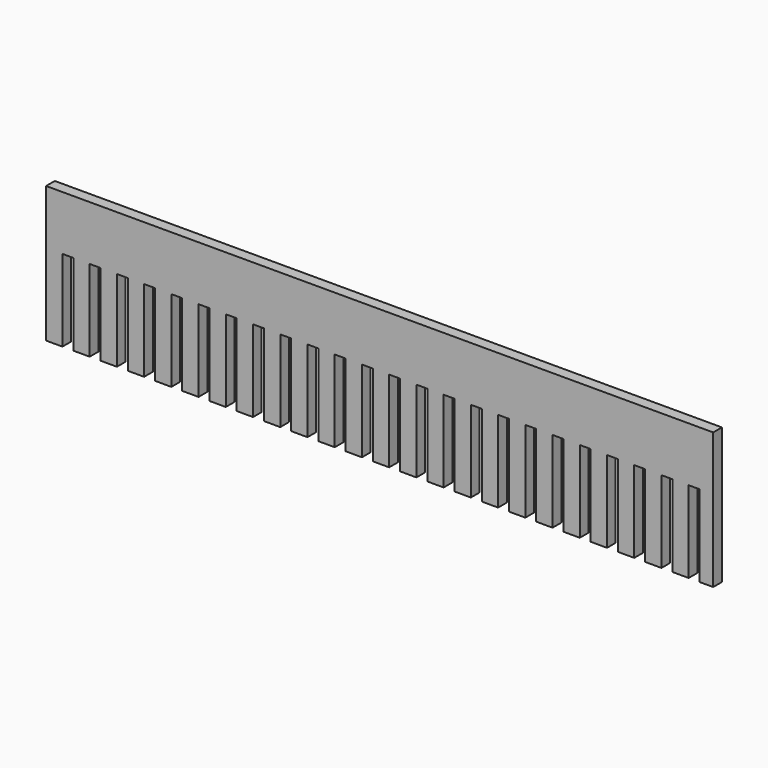
from build123d import *

# Parameters (mm, degrees)
F1_DEPTH = 4


with BuildPart() as f1:
    # F0 (on Front) → F1 (new body)
    with BuildSketch(Plane.XZ):
        Polygon((6, -50), (6, -20), (10, -20), (10, -50), (16, -50), (16, -20), (20, -20), (20, -50), (26, -50), (26, -20), (30, -20), (30, -50), (36, -50), (36, -20), (40, -20), (40, -50), (46, -50), (46, -20), (50, -20), (50, -50), (56, -50), (56, -20), (60, -20), (60, -50), (66, -50), (66, -20), (70, -20), (70, -50), (76, -50), (76, -20), (80, -20), (80, -50), (86, -50), (86, -20), (90, -20), (90, -50), (96, -50), (96, -20), (100, -20), (100, -50), (106, -50), (106, -20), (110, -20), (110, -50), (116, -50), (116, -20), (120, -20), (120, -50), (126, -50), (126, -20), (130, -20), (130, -50), (136, -50), (136, -20), (140, -20), (140, -50), (146, -50), (146, -20), (150, -20), (150, -50), (156, -50), (156, -20), (160, -20), (160, -50), (166, -50), (166, -20), (170, -20), (170, -50), (176, -50), (176, -20), (180, -20), (180, -50), (186, -50), (186, -20), (190, -20), (190, -50), (196, -50), (196, -20), (200, -20), (200, -50), (206, -50), (206, -20), (210, -20), (210, -50), (216, -50), (216, -20), (220, -20), (220, -50), (226, -50), (226, -20), (230, -20), (230, -50), (236, -50), (236, -20), (240, -20), (240, -50), (245, -50), (245, 0), (0, 0), (0, -50), align=None)
    extrude(amount=F1_DEPTH)


solid = f1.part
